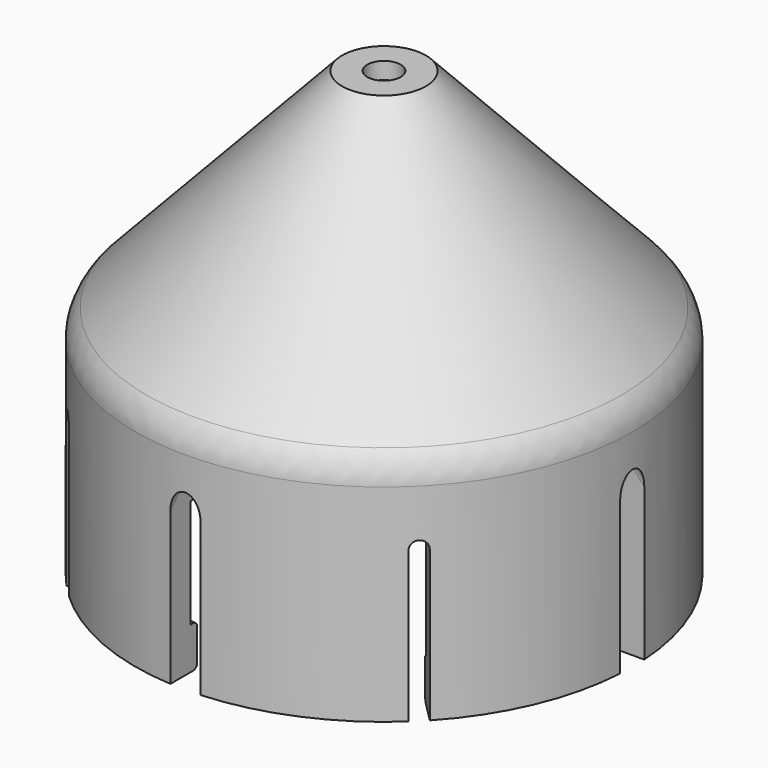
from build123d import *

# Parameters (mm, degrees)
FILLET_R              = 0.6
POCKET_DEPTH          = 254.320619
POLARPATTERN_COUNT    = 4
FILLET001_R           = 5
POCKET001_DEPTH       = 240.655808
POLARPATTERN001_COUNT = 4


with BuildPart() as part:
    # Sketch → Revolution (revolve)
    with BuildSketch(Plane.XZ):
        Polygon((21.7, 0), (21.7, 12), (2, 33), (2, 35), (5, 35), (29.7, 8.670051), (29.7, -18), (25.7, -18), (25.7, -13), (26.7, -13), (26.7, 0), align=None)
    revolve(axis=Axis((0, 0, 0), (0, 0, 1)))

    # Fillet
    fillet_edges = [part.edges().sort_by_distance(p)[0] for p in [
        (-25.7, 0, -18),
        (-25.7, 0, -13),
        (25.7, 0, -15.5),
    ]]
    fillet(fillet_edges, radius=FILLET_R)

    # Sketch001 (on DatumPlane) → Pocket (cut, through all)
    with BuildSketch(Plane(origin=(4.5, 0, 35), x_dir=(0, -1, 0), z_dir=(-0.693246, 0, 0.720701))):
        with BuildLine():
            ThreePointArc((-1.8, -32.50628), (0, -34.30628), (1.8, -32.50628))
            Line((1.8, -32.50628), (1.8, -6))
            ThreePointArc((1.8, -6), (0, -4.2), (-1.8, -6))
            Line((-1.8, -32.50628), (-1.8, -6))
        make_face()
    pocket = extrude(amount=-POCKET_DEPTH, mode=Mode.SUBTRACT)

    # PolarPattern: Pocket ×4 about axis
    polarpattern_axis = Axis((0, 0, 0), (0, 0, 1))
    for i in range(1, POLARPATTERN_COUNT):
        add(pocket.rotate(polarpattern_axis, i * 360 / POLARPATTERN_COUNT), mode=Mode.SUBTRACT)

    # Fillet001
    fillet001_edges = [part.edges().sort_by_distance(p)[0] for p in [
        (-29.7, 0, 8.670051),
    ]]
    fillet(fillet001_edges, radius=FILLET001_R)

    # Sketch002 (on DatumPlane) → Pocket001 (cut, through all)
    with BuildSketch(Plane(origin=(0, 0, 0), x_dir=(-0.707107, 0.707107, 0), z_dir=(0.707107, 0.707107, 0))):
        with BuildLine():
            ThreePointArc((1, 0), (0, 1), (-1, 0))
            Line((-1, 0), (-1, -30))
            ThreePointArc((-1, -30), (0, -31), (1, -30))
            Line((1, 0), (1, -30))
        make_face()
    pocket001 = extrude(amount=-POCKET001_DEPTH, mode=Mode.SUBTRACT)

    # PolarPattern001: Pocket001 ×4 about axis
    polarpattern001_axis = Axis((0, 0, 0), (0, 0, 1))
    for i in range(1, POLARPATTERN001_COUNT):
        add(pocket001.rotate(polarpattern001_axis, i * 360 / POLARPATTERN001_COUNT), mode=Mode.SUBTRACT)


solid = part.part
